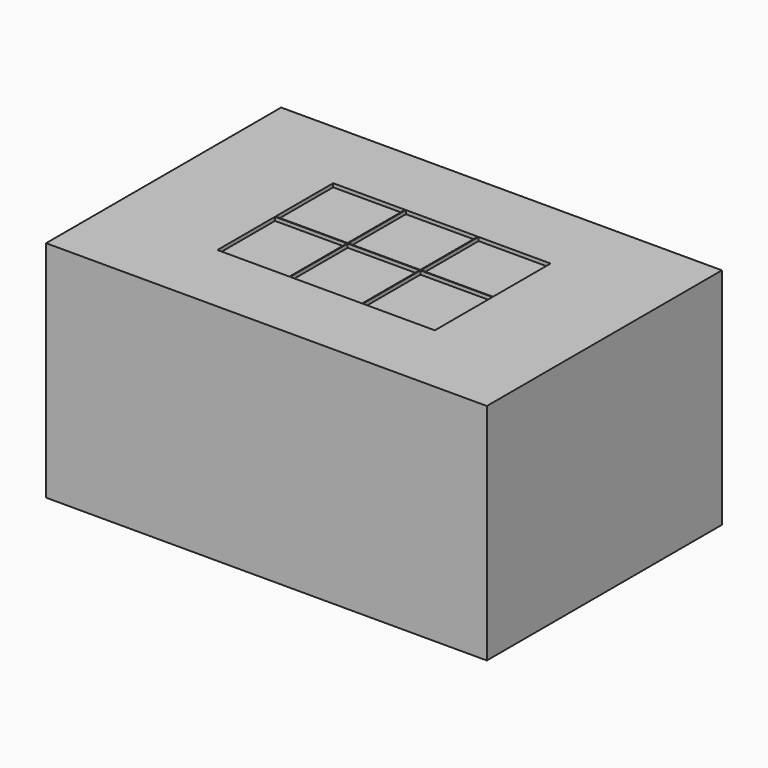
from build123d import *

# Parameters (mm, degrees)
F0_W     = 3000
F0_H     = 2000
F1_DEPTH = 1500
F2_W     = 3000
F2_H     = 2000
F2_W_2   = 490
F2_H_2   = 490
F3_DEPTH = 25


with BuildPart() as f1:
    # F0 (on Top) → F1 (new body)
    with BuildSketch(Plane.XY):
        Rectangle(F0_W, F0_H)
    extrude(amount=-F1_DEPTH)

    # F2 (on face) → F3 (join)
    with BuildSketch(Plane.XY):
        Rectangle(F2_W, F2_H)
        with Locations((-495, -247.5)):
            Rectangle(F2_W_2, F2_H_2, mode=Mode.SUBTRACT)
        with Locations((0, -247.5)):
            Rectangle(F2_W_2, F2_H_2, mode=Mode.SUBTRACT)
        with Locations((495, -247.5)):
            Rectangle(F2_W_2, F2_H_2, mode=Mode.SUBTRACT)
        with Locations((-495, 247.5)):
            Rectangle(F2_W_2, F2_H_2, mode=Mode.SUBTRACT)
        with Locations((0, 247.5)):
            Rectangle(F2_W_2, F2_H_2, mode=Mode.SUBTRACT)
        with Locations((495, 247.5)):
            Rectangle(F2_W_2, F2_H_2, mode=Mode.SUBTRACT)
    extrude(amount=F3_DEPTH)


solid = f1.part
